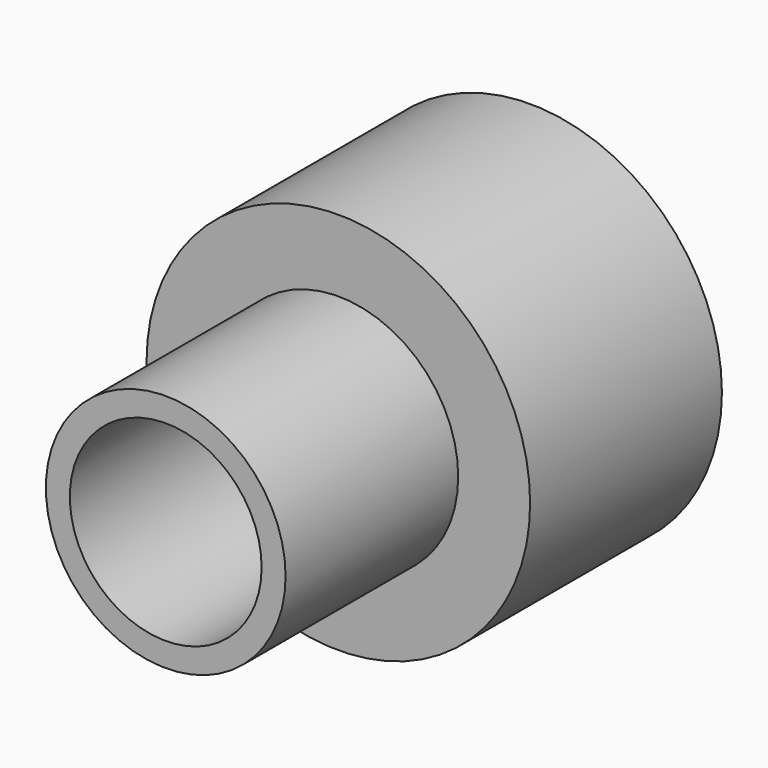
from build123d import *

# Parameters (mm, degrees)
F0_R     = 25.4
F1_DEPTH = 31.75
F2_R     = 15.875
F3_DEPTH = 28.575
F4_R     = 12.7
F5_DEPTH = 60.325


with BuildPart() as f1:
    # F0 (on Front) → F1 (new body)
    with BuildSketch(Plane.XZ):
        Circle(F0_R)
    extrude(amount=-F1_DEPTH)

    # F2 (on face) → F3 (join)
    with BuildSketch(Plane.XZ):
        Circle(F2_R)
    extrude(amount=F3_DEPTH)

    # F4 (on face) → F5 (cut)
    with BuildSketch(Plane.XZ.offset(28.575)):
        Circle(F4_R)
    extrude(amount=-F5_DEPTH, mode=Mode.SUBTRACT)


solid = f1.part
